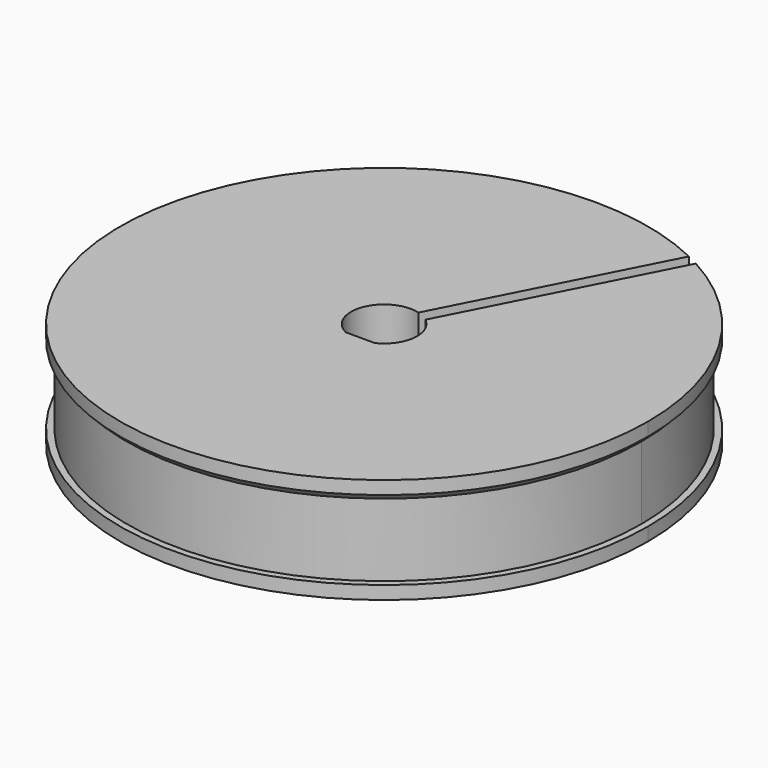
from build123d import *

# Parameters (mm, degrees)
SKETCH_R           = 20
PAD_DEPTH          = 8
POCKET_DEPTH       = 8.001
SKETCH003_R        = 3.5
POCKET001_DEPTH    = 7
POLARPATTERN_COUNT = 5
SKETCH005_R        = 1.995724
POCKET002_DEPTH    = 0.5
SKETCH007_R        = 17.476315
SKETCH007_R_2      = 3.403878
PAD001_DEPTH       = 1
POCKET003_DEPTH    = 8.001


with BuildPart() as part:
    # Sketch → Pad (new body)
    with BuildSketch(Plane.XY):
        Circle(SKETCH_R)
    extrude(amount=PAD_DEPTH)

    # Sketch001 (on Face3 of Pad) → Pocket (cut, through all)
    with BuildSketch(Plane.XY.offset(8)):
        with BuildLine():
            ThreePointArc((1.101147, -2.25), (0, 2.505), (-1.101147, -2.25))
            Line((-1.101147, -2.25), (1.101147, -2.25))
        make_face()
    extrude(amount=-POCKET_DEPTH, mode=Mode.SUBTRACT)

    # Sketch002 → Groove (revolve, cut)
    with BuildSketch(Plane.XZ):
        Polygon((19.5, 6.5), (19.5, 1), (23, 1), (23, 10), align=None)
    revolve(axis=Axis((0, 0, 0), (0, 0, 1)), mode=Mode.SUBTRACT)

    # Sketch003 (on Face3 of Groove) → Pocket001 (cut)
    with BuildSketch(Plane.XY.offset(8)):
        with Locations((0, 13)):
            Circle(SKETCH003_R)
    pocket001 = extrude(amount=-POCKET001_DEPTH, mode=Mode.SUBTRACT)

    # PolarPattern: Pocket001 ×5 about axis
    polarpattern_axis = Axis((0, 0, 8), (0, 0, 1))
    for i in range(1, POLARPATTERN_COUNT):
        add(pocket001.rotate(polarpattern_axis, i * 360 / POLARPATTERN_COUNT), mode=Mode.SUBTRACT)

    # Sketch005 (on Face3 of PolarPattern) → Pocket002 (cut)
    with BuildSketch(Plane.XY.offset(8)):
        with Locations((-5.881012, 7.168965)):
            Circle(SKETCH005_R)
    extrude(amount=-POCKET002_DEPTH, mode=Mode.SUBTRACT)

    # Sketch007 (on Face3 of Pocket002) → Pad001 (join)
    with BuildSketch(Plane.XY.offset(8)):
        Circle(SKETCH007_R)
        Circle(SKETCH007_R_2, mode=Mode.SUBTRACT)
    extrude(amount=-PAD001_DEPTH)

    # Sketch008 (on Face5 of Pad001) → Pocket003 (cut, through all)
    with BuildSketch(Plane.XY.offset(8)):
        Polygon((0, 0), (-0.444954, 0.22807), (10.469651, 21.521968), (11.359559, 21.065828), (0.444954, -0.22807), align=None)
    extrude(amount=-POCKET003_DEPTH, mode=Mode.SUBTRACT)


solid = part.part
